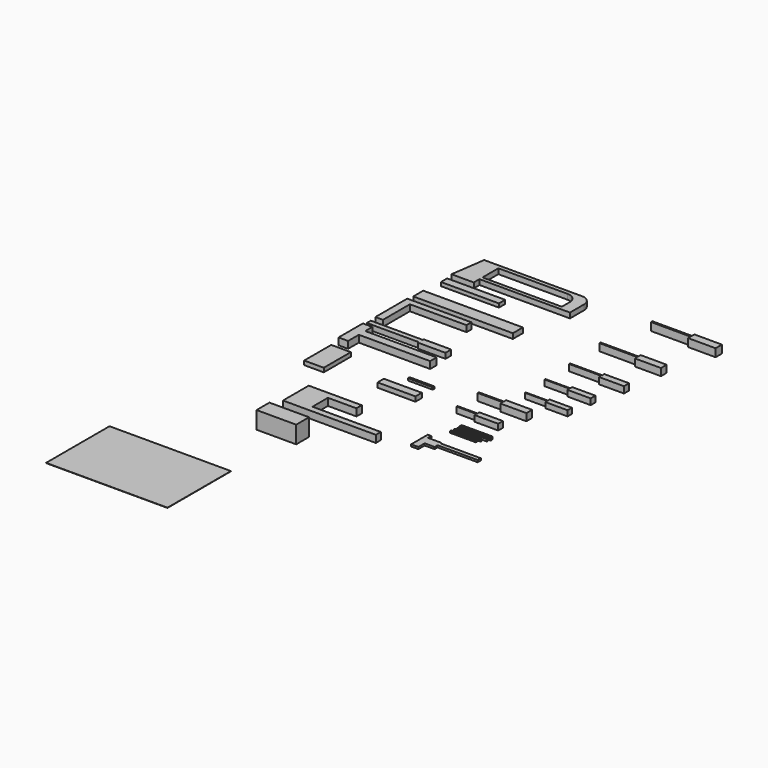
from build123d import *

# Parameters (mm, degrees)
F1_DEPTH  = 21
F2_W      = 234
F2_H      = 31.5
F3_DEPTH  = 15
F4_W      = 402
F4_H      = 50.5
F5_DEPTH  = 20.5
F7_DEPTH  = 25
F9_DEPTH  = 21.5
F11_DEPTH = 28
F12_W     = 79
F12_H     = 136.5
F13_DEPTH = 16.5
F15_DEPTH = 32
F17_DEPTH = 29
F19_DEPTH = 26
F21_DEPTH = 24
F23_DEPTH = 22
F25_DEPTH = 29
F27_DEPTH = 24
F28_W     = 125
F28_H     = 10.5
F29_DEPTH = 10.5
F30_W     = 120
F30_H     = 8.5
F31_DEPTH = 8.5
F32_W     = 110
F32_H     = 7
F33_DEPTH = 7
F34_W     = 105
F34_H     = 6
F35_DEPTH = 6
F36_W     = 100
F36_H     = 8.5
F37_DEPTH = 8.5
F38_W     = 153
F38_H     = 32
F39_DEPTH = 19
F41_DEPTH = 29
F42_W     = 160
F42_H     = 65
F43_DEPTH = 70
F45_DEPTH = 8
F46_W     = 490
F46_H     = 320
F47_DEPTH = 1


with BuildPart() as f1:
    # F0 (on Top) → F1 (new body)
    with BuildSketch(Plane.XY):
        with BuildLine():
            Line((90, 29), (455, 29))
            Line((455, 29), (455, 100))
            ThreePointArc((455, 100), (443.284271, 128.284271), (415, 140))
            Line((415, 140), (20, 140))
            Line((20, 140), (0, 0))
            Line((0, 0), (90, 0))
            Line((90, 0), (90, 29))
        make_face()
        with BuildLine():
            Line((90, 44), (90, 124))
            Line((90, 124), (370, 124))
            ThreePointArc((370, 124), (398.284271, 112.284271), (410, 84))
            Line((410, 84), (410, 44))
            Line((410, 44), (90, 44))
        make_face(mode=Mode.SUBTRACT)
    extrude(amount=F1_DEPTH)


with BuildPart() as f3:
    # F2 (on Top) → F3 (new body)
    with BuildSketch(Plane.XY):
        with Locations((117, -37.354158)):
            Rectangle(F2_W, F2_H)
    extrude(amount=F3_DEPTH)


with BuildPart() as f5:
    # F4 (on Top) → F5 (new body)
    with BuildSketch(Plane.XY):
        with Locations((201, -167.595745)):
            Rectangle(F4_W, F4_H)
    extrude(amount=F5_DEPTH)


with BuildPart() as f7:
    # F6 (on Top) → F7 (new body)
    with BuildSketch(Plane.XY):
        Polygon((259, -247.991928), (259, -222.991928), (0, -222.991928), (0, -383.991928), (30.5, -383.991928), (30.5, -247.991928), align=None)
    extrude(amount=F7_DEPTH)


with BuildPart() as f9:
    # F8 (on Top) → F9 (new body)
    with BuildSketch(Plane.XY):
        Polygon((210, -407.039392), (0, -407.039392), (0, -427.039392), (210, -427.039392), (210, -431.539392), (321, -431.539392), (321, -402.539392), (210, -402.539392), align=None)
    extrude(amount=F9_DEPTH)


with BuildPart() as f11:
    # F10 (on Top) → F11 (new body)
    with BuildSketch(Plane.XY):
        Polygon((38.5, -447.135062), (0, -447.135062), (0, -569.635062), (38.5, -569.635062), (38.5, -515.635062), (326.5, -515.635062), (326.5, -483.135062), (38.5, -483.135062), align=None)
    extrude(amount=F11_DEPTH)


with BuildPart() as f13:
    # F12 (on Top) → F13 (new body)
    with BuildSketch(Plane.XY):
        with Locations((39.5, -674.947464)):
            Rectangle(F12_W, F12_H)
    extrude(amount=F13_DEPTH)


with BuildPart() as f15:
    # F14 (on Top) → F15 (new body)
    with BuildSketch(Plane.XY):
        Polygon((867.831475, 128.447544), (707.831475, 128.447544), (707.831475, 121.447544), (867.831475, 121.447544), (867.831475, 108.947544), (978.831475, 108.947544), (978.831475, 140.947544), (867.831475, 140.947544), align=None)
    extrude(amount=F15_DEPTH)


with BuildPart() as f17:
    # F16 (on Top) → F17 (new body)
    with BuildSketch(Plane.XY):
        Polygon((820.255642, -82.077995), (667.691423, -82.077995), (667.691423, -88.077995), (820.255642, -88.077995), (820.255642, -99.577995), (925.255642, -99.577995), (925.255642, -70.577995), (820.255642, -70.577995), align=None)
    extrude(amount=F17_DEPTH)


with BuildPart() as f19:
    # F18 (on Top) → F19 (new body)
    with BuildSketch(Plane.XY):
        Polygon((808.137628, -249.362517), (678.137592, -249.362517), (678.137592, -254.362517), (808.137628, -254.362517), (808.137628, -264.862517), (908.137628, -264.862517), (908.137628, -238.862517), (808.137628, -238.862517), align=None)
    extrude(amount=F19_DEPTH)


with BuildPart() as f21:
    # F20 (on Top) → F21 (new body)
    with BuildSketch(Plane.XY):
        Polygon((781.789992, -378.292733), (681.789992, -378.292733), (681.789992, -382.292733), (781.789992, -382.292733), (781.789992, -392.292733), (875.789992, -392.292733), (875.789992, -368.292733), (781.789992, -368.292733), align=None)
    extrude(amount=F21_DEPTH)


with BuildPart() as f23:
    # F22 (on Top) → F23 (new body)
    with BuildSketch(Plane.XY):
        Polygon((777.021242, -485.226869), (687.021242, -485.226869), (687.021242, -488.726869), (777.021242, -488.726869), (777.021242, -497.976869), (867.021242, -497.976869), (867.021242, -475.976869), (777.021242, -475.976869), align=None)
    extrude(amount=F23_DEPTH)


with BuildPart() as f25:
    # F24 (on Top) → F25 (new body)
    with BuildSketch(Plane.XY):
        Polygon((681.389749, -587.351922), (580.389749, -587.351922), (580.389749, -593.351922), (681.389749, -593.351922), (681.389749, -604.851922), (786.389749, -604.851922), (786.389749, -575.851922), (681.389749, -575.851922), align=None)
    extrude(amount=F25_DEPTH)


with BuildPart() as f27:
    # F26 (on Top) → F27 (new body)
    with BuildSketch(Plane.XY):
        Polygon((661.221033, -695.153743), (580.221033, -695.153743), (580.221033, -700.153743), (661.221033, -700.153743), (661.221033, -709.653743), (756.221033, -709.653743), (756.221033, -685.653743), (661.221033, -685.653743), align=None)
    extrude(amount=F27_DEPTH)


with BuildPart() as f29:
    # F28 (on Top) → F29 (new body)
    with BuildSketch(Plane.XY):
        with Locations((718.389003, -773.53248)):
            Rectangle(F28_W, F28_H)
    extrude(amount=F29_DEPTH)


with BuildPart() as f31:
    # F30 (on Top) → F31 (new body)
    with BuildSketch(Plane.XY):
        with Locations((715.349168, -786.595958)):
            Rectangle(F30_W, F30_H)
    extrude(amount=F31_DEPTH)


with BuildPart() as f33:
    # F32 (on Top) → F33 (new body)
    with BuildSketch(Plane.XY):
        with Locations((705.738574, -800.216655)):
            Rectangle(F32_W, F32_H)
    extrude(amount=F33_DEPTH)


with BuildPart() as f35:
    # F34 (on Top) → F35 (new body)
    with BuildSketch(Plane.XY):
        with Locations((699.561834, -813.692123)):
            Rectangle(F34_W, F34_H)
    extrude(amount=F35_DEPTH)


with BuildPart() as f37:
    # F36 (on Top) → F37 (new body)
    with BuildSketch(Plane.XY):
        with Locations((370.875239, -616.881128)):
            Rectangle(F36_W, F36_H)
    extrude(amount=F37_DEPTH)


with BuildPart() as f39:
    # F38 (on Top) → F39 (new body)
    with BuildSketch(Plane.XY):
        with Locations((353.325054, -703.158791)):
            Rectangle(F38_W, F38_H)
    extrude(amount=F39_DEPTH)


with BuildPart() as f41:
    # F40 (on Top) → F41 (new body)
    with BuildSketch(Plane.XY):
        Polygon((133.305624, -1016.875479), (508.305624, -1016.875479), (508.305624, -991.875479), (232.344094, -991.875479), (232.344094, -913.875479), (347.344094, -913.875479), (347.344094, -886.875479), (133.305624, -886.875479), align=None)
    extrude(amount=F41_DEPTH)


with BuildPart() as f43:
    # F42 (on Top) → F43 (new body)
    with BuildSketch(Plane.XY):
        with Locations((238.079123, -1148.674007)):
            Rectangle(F42_W, F42_H)
    extrude(amount=F43_DEPTH)


with BuildPart() as f45:
    # F44 (on Top) → F45 (new body)
    with BuildSketch(Plane.XY):
        Polygon((841.289062, -919.429519), (841.289062, -903.429519), (679.289062, -903.429519), (679.289062, -898.929519), (624.289062, -898.929519), (624.289062, -882.429519), (610.289062, -882.429519), (610.289062, -966.429519), (639.289062, -966.429519), (639.289062, -934.429519), (679.289062, -934.429519), (679.289062, -919.429519), align=None)
    extrude(amount=F45_DEPTH)


with BuildPart() as f47:
    # F46 (on Top) → F47 (new body)
    with BuildSketch(Plane.XY):
        with Locations((27.455986, -1613.542534)):
            Rectangle(F46_W, F46_H)
    extrude(amount=F47_DEPTH)


solid = Compound([f1.part, f3.part, f5.part, f7.part, f9.part, f11.part, f13.part, f15.part, f17.part, f19.part, f21.part, f23.part, f25.part, f27.part, f29.part, f31.part, f33.part, f35.part, f37.part, f39.part, f41.part, f43.part, f45.part, f47.part])
